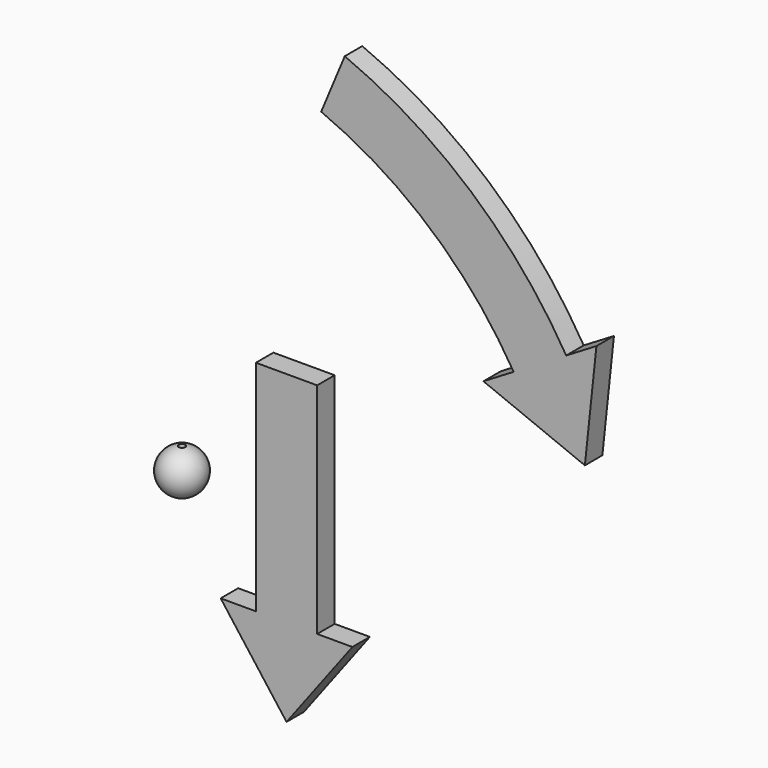
from build123d import *

# Parameters (mm, degrees)
F2_DEPTH = 10


with BuildPart() as f1:
    # F0 (on Front) → F1 (revolve)
    with BuildSketch(Plane.XZ):
        with BuildLine():
            Line((1.5, 19.88686), (1.5, 0.11314))
            ThreePointArc((1.5, 0.11314), (10, 10), (1.5, 19.88686))
        make_face()
    revolve(axis=Axis((0, 0, 10), (0, 0, 1)))


with BuildPart() as f2:
    # F0 (on Front) → F2 (new body)
    with BuildSketch(Plane.XZ):
        with BuildLine():
            Line((171.536156, 112.836506), (183.543687, 120.035062))
            ThreePointArc((183.543687, 120.035062), (139.965452, 171.881662), (82.367649, 207.513469))
            Line((82.367649, 207.513469), (71.590573, 181.670585))
            ThreePointArc((71.590573, 181.670585), (121.652215, 150.700883), (159.528626, 105.637951))
            Line((159.528626, 105.637951), (171.536156, 112.836506))
        make_face()
        Polygon((192.068378, 78.58779), (197.344415, 128.308645), (183.543687, 120.035062), (171.536156, 112.836506), (159.528626, 105.637951), (145.727897, 97.364368), align=None)
        Polygon((55.753344, 71.017258), (41.753344, 71.017258), (41.753344, -28.982742), (25.662593, -28.982742), (55.753344, -68.914518), (85.844095, -28.982742), (69.753344, -28.982742), (69.753344, 71.017258), align=None)
    extrude(amount=F2_DEPTH)


solid = Compound([f1.part, f2.part])
